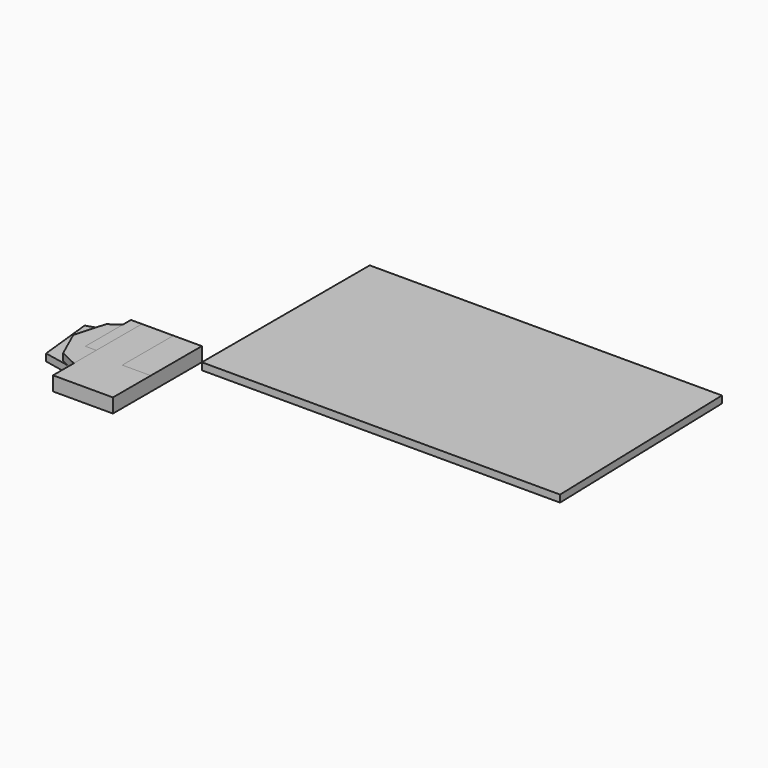
from build123d import *

# Parameters (mm, degrees)
PAD_DEPTH    = 10
PAD001_DEPTH = 10
PAD005_DEPTH = 5
PAD010_DEPTH = 10
PAD015_DEPTH = 10
SKETCH026_W  = 49.87516
SKETCH026_H  = 40.159164
PAD022_DEPTH = 10
SKETCH029_W  = 29.960587
SKETCH029_H  = 30.027189
PAD021_DEPTH = 10
SKETCH031_W  = 42.188831
SKETCH031_H  = 78.241425
PAD018_DEPTH = 10
SKETCH020_W  = 20.015697
SKETCH020_H  = 44.976456
PAD020_DEPTH = 10
PAD033_DEPTH = 5
PAD037_DEPTH = 5
PAD034_DEPTH = 5
PAD038_DEPTH = 5


with BuildPart() as body:
    # Sketch → Pad (new body)
    with BuildSketch(Plane.XY):
        Polygon((18.167238, -26.824047), (31.159077, -8.870737), (29.571237, 13.23329), (14.146687, 29.145313), (-7.897255, 31.41992), (-26.245984, 18.992798), (-32.313925, -2.321266), (-23.261822, -22.549184), (-3.325253, -32.226088), align=None)
    extrude(amount=PAD_DEPTH)


with BuildPart() as body_1:
    # Body placement: moved
    add(body.part.moved(Location((-31.159077, -31.41992, 0))))


with BuildPart() as body001:
    # Sketch001 → Pad001 (new body)
    with BuildSketch(Plane.XY):
        Polygon((-14.146512, 4.385867), (-14.444172, -3.274984), (-10.871528, -10.058305), (-4.385867, -14.146512), (3.274984, -14.444172), (10.058305, -10.871528), (14.146512, -4.385867), (14.444172, 3.274984), (10.871528, 10.058305), (4.385867, 14.146512), (-3.274984, 14.444172), (-10.058305, 10.871528), align=None)
    extrude(amount=PAD001_DEPTH)


with BuildPart() as body001_1:
    # Body001 placement: moved
    add(body001.part.moved(Location((-14.444172, -14.444172, 0))))


with BuildPart() as body005:
    # Sketch005 → Pad005 (new body)
    with BuildSketch(Plane.XY):
        Polygon((8.917991, 0), (13.337694, 8.722222), (4.077364, 17.140703), (-8.024202, 17.140703), (-17.600224, 1.776977), (-4.762044, -10.850743), (0.920433, -10.850743), align=None)
    extrude(amount=PAD005_DEPTH)


with BuildPart() as body005_1:
    # Body005 placement: moved
    add(body005.part.moved(Location((-13.337694, -17.140703, 0))))


with BuildPart() as body013:
    # Sketch011 → Pad010 (new body)
    with BuildSketch(Plane.XY):
        Polygon((0, 0), (8.205842, -24.465275), (25.290471, -5.12617), align=None)
    extrude(amount=PAD010_DEPTH)


with BuildPart() as body013_1:
    # Body013 placement: moved
    add(body013.part.moved(Location((-25.290471, 0, 0))))


with BuildPart() as body014:
    # Sketch015 → Pad015 (new body)
    with BuildSketch(Plane.XY):
        Polygon((0, 0), (-31.835562, 11.811761), (-26.147066, -21.664525), align=None)
    extrude(amount=PAD015_DEPTH)


with BuildPart() as body014_1:
    # Body014 placement: moved
    add(body014.part.moved(Location((0, -11.811761, 0))))


with BuildPart() as body024:
    # Sketch026 → Pad022 (new body)
    with BuildSketch(Plane.XY):
        with Locations((24.93758, 20.079582)):
            Rectangle(SKETCH026_W, SKETCH026_H)
    extrude(amount=PAD022_DEPTH)


with BuildPart() as body024_1:
    # Body024 placement: moved
    add(body024.part.moved(Location((-49.87516, -40.159164, 0))))


with BuildPart() as body026:
    # Sketch029 → Pad021 (new body)
    with BuildSketch(Plane.XY):
        with Locations((14.980294, 15.013594)):
            Rectangle(SKETCH029_W, SKETCH029_H)
    extrude(amount=PAD021_DEPTH)


with BuildPart() as body026_1:
    # Body026 placement: moved
    add(body026.part.moved(Location((-29.960587, -30.027189, 0))))


with BuildPart() as body028:
    # Sketch031 → Pad018 (new body)
    with BuildSketch(Plane.XY):
        with Locations((21.094416, 39.120712)):
            Rectangle(SKETCH031_W, SKETCH031_H)
    extrude(amount=PAD018_DEPTH)


with BuildPart() as body028_1:
    # Body028 placement: moved
    add(body028.part.moved(Location((-42.188831, -78.241425, 0))))


with BuildPart() as body030:
    # Sketch020 → Pad020 (new body)
    with BuildSketch(Plane.XY):
        with Locations((10.007848, 22.488228)):
            Rectangle(SKETCH020_W, SKETCH020_H)
    extrude(amount=PAD020_DEPTH)


with BuildPart() as body030_1:
    # Body030 placement: moved
    add(body030.part.moved(Location((-20.015697, -44.976456, 0))))


with BuildPart() as body033:
    # Sketch032 → Pad033 (new body)
    with BuildSketch(Plane.XY):
        Polygon((13.408981, 0), (28.432302, 15.739498), (5.023878, 37.401024), (-37.251019, 23.775227), (-33.058464, -15.355267), (11.662088, -24.439129), (34.37175, -12.56023), align=None)
    extrude(amount=PAD033_DEPTH)


with BuildPart() as body033_1:
    # Body033 placement: moved
    add(body033.part.moved(Location((-34.37175, -37.401024, 0))))


with BuildPart() as body034:
    # Sketch035 → Pad037 (new body)
    with BuildSketch(Plane.XY):
        Polygon((13.758363, 0), (12.01147, 9.80005), (-4.409369, 11.896324), (-28.516535, 11.896324), (-29.564672, 0), (-24.673361, -3.476364), (-26.769636, -16.752783), (-8.601904, -11.162712), (4.325122, -16.054022), (16.5534, -8.717056), (24.239746, -11.512094), (21.44471, -2.777609), align=None)
    extrude(amount=PAD037_DEPTH)


with BuildPart() as body034_1:
    # Body034 placement: moved
    add(body034.part.moved(Location((-24.239746, -11.896324, 0))))


with BuildPart() as body036:
    # Sketch038 → Pad034 (new body)
    with BuildSketch(Plane.XY):
        Polygon((0, 23.425846), (7.120159, 10.498806), (22.492847, 9.450668), (8.168289, -2.078853), (14.107744, -16.752783), (0, -10.114574), (-11.04756, -18.150301), (-7.903162, 0), (-19.083288, 10.498806), (-6.505643, 10.498806), align=None)
    extrude(amount=PAD034_DEPTH)


with BuildPart() as body036_1:
    # Body036 placement: moved
    add(body036.part.moved(Location((-22.492847, -23.425846, 0))))


with BuildPart() as board_body:
    # Sketch039 → Pad038 (new body)
    with BuildSketch(Plane.XY):
        Polygon((0, 20.547499), (-247.900177, 20.547499), (-247.900177, -127.148323), (4.227076, -127.148323), align=None)
    extrude(amount=-PAD038_DEPTH)


with BuildPart() as board_body_1:
    # Body037 placement: moved
    add(board_body.part.moved(Location((247.900177, 127.148323, 0))))


solid = Compound([body_1.part, body001_1.part, body005_1.part, body013_1.part, body014_1.part, body024_1.part, body026_1.part, body028_1.part, body030_1.part, body033_1.part, body034_1.part, body036_1.part, board_body_1.part])
